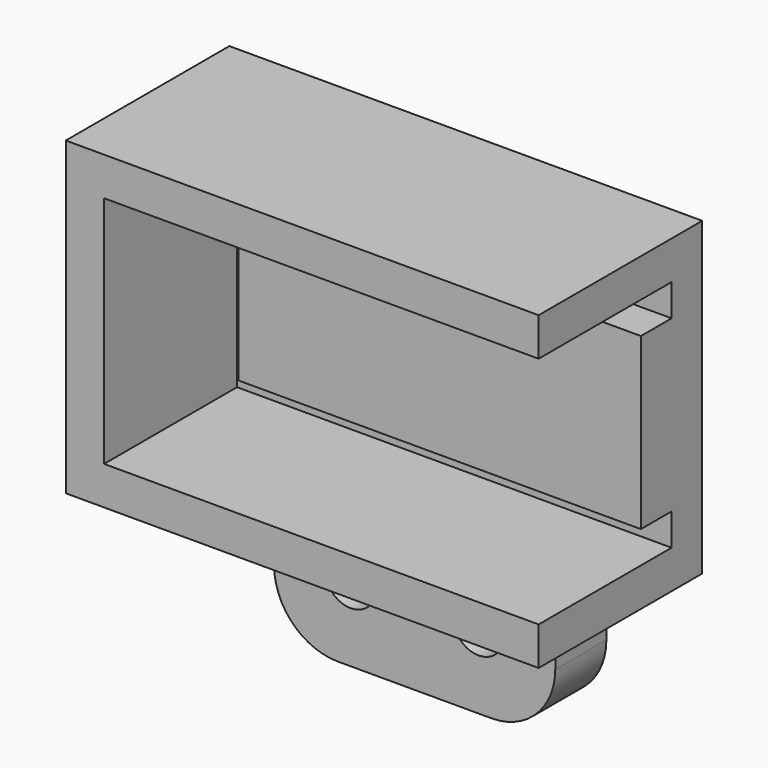
from build123d import *

# Parameters (mm, degrees)
F0_W      = 37
F0_H      = 24.3
F0_W_2    = 31
F0_H_2    = 9.15
F1_DEPTH  = 3
F2_DEPTH  = 13
F3_W      = 3
F3_H      = 18.3
F4_DEPTH  = 13
F5_W      = 28.5
F5_H      = 13.3
F5_W_2    = 3
F6_DEPTH  = 3
F7_W      = 22
F7_H      = 5
F8_DEPTH  = 12
F10_R     = 5
F11_DEPTH = 25


with BuildPart() as f1:
    # F0 (on Front) → F1 (new body)
    with BuildSketch(Plane.XZ):
        with Locations((15.5, 9.15)):
            Rectangle(F0_W, F0_H)
        Polygon((31, 0), (0, 0), (0, 9.15), (0, 18.3), (31, 18.3), (31, 9.15), align=None, mode=Mode.SUBTRACT)
        with Locations((15.5, 13.725)):
            Rectangle(F0_W_2, F0_H_2)
        with Locations((15.5, 4.575)):
            Rectangle(F0_W_2, F0_H_2)
    extrude(amount=-F1_DEPTH)

    # F0 (on Front) → F2 (join)
    with BuildSketch(Plane.XZ):
        with Locations((15.5, 9.15)):
            Rectangle(F0_W, F0_H)
        Polygon((31, 0), (0, 0), (0, 9.15), (0, 18.3), (31, 18.3), (31, 9.15), align=None, mode=Mode.SUBTRACT)
    extrude(amount=F2_DEPTH)

    # F3 (on face) → F4 (cut, through all)
    with BuildSketch(Plane.XZ.offset(13)):
        with Locations((32.5, 9.15)):
            Rectangle(F3_W, F3_H)
    extrude(amount=-F4_DEPTH, mode=Mode.SUBTRACT)

    # F5 (on face) → F6 (join)
    with BuildSketch(Plane.XZ):
        with Locations((16.75, 9.15)):
            Rectangle(F5_W, F5_H)
        with Locations((32.5, 9.15)):
            Rectangle(F5_W_2, F5_H)
    extrude(amount=F6_DEPTH)

    # F7 (on face) → F8 (join)
    with BuildSketch(Plane(origin=(0, 0, -3), x_dir=(1, 0, 0), z_dir=(0, 0, -1))):
        with Locations((15.5, -0.5)):
            Rectangle(F7_W, F7_H)
    extrude(amount=F8_DEPTH)

    # F10
    f10_edges = [f1.edges().sort_by_distance(p)[0] for p in [
        (4.5, 0.5, -15),
        (4.5, 0.5, -3),
        (26.5, 0.5, -15),
        (26.5, 0.5, -3),
    ]]
    fillet(f10_edges, radius=F10_R)

    # F9 (on face) → F11 (cut)
    with BuildSketch(Plane.XZ.offset(2)):
        with BuildLine():
            Line((8.5, -9), (12.5, -9))
            ThreePointArc((12.5, -9), (10.5, -7), (8.5, -9))
        make_face()
        with BuildLine():
            ThreePointArc((8.5, -9), (10.5, -11), (12.5, -9))
            Line((12.5, -9), (8.5, -9))
        make_face()
        with BuildLine():
            Line((18.5, -9), (22.5, -9))
            ThreePointArc((22.5, -9), (20.5, -7), (18.5, -9))
        make_face()
        with BuildLine():
            ThreePointArc((18.5, -9), (20.5, -11), (22.5, -9))
            Line((22.5, -9), (18.5, -9))
        make_face()
    extrude(amount=-F11_DEPTH, mode=Mode.SUBTRACT)


solid = f1.part
